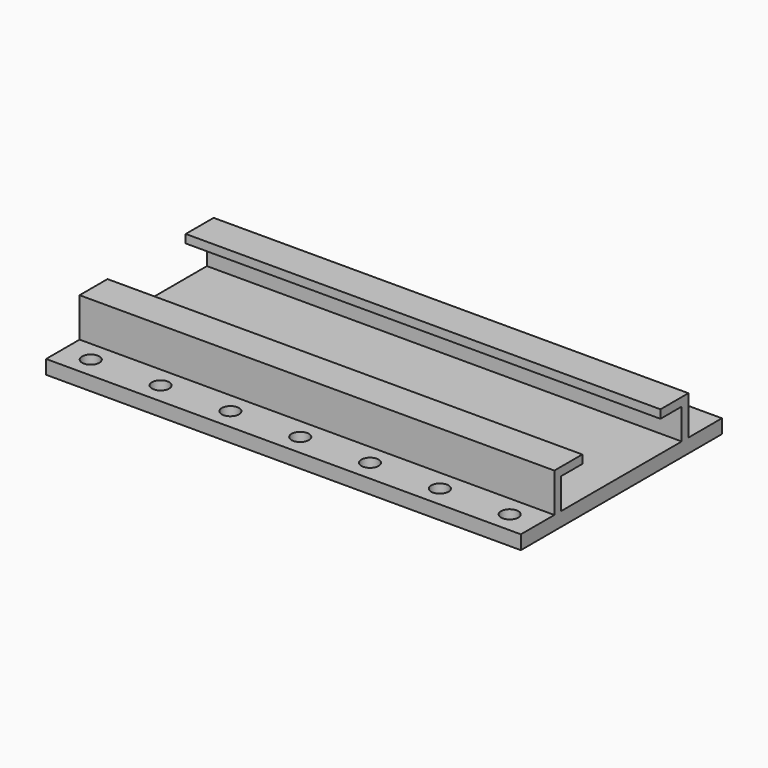
from build123d import *

# Parameters (mm, degrees)
F0_W     = 3
F0_H     = 11
F1_DEPTH = 85
F2_R     = 3.1
F3_DEPTH = 6


with BuildPart() as f1:
    # F0 (on Right) → F1 (new body, symmetric)
    with BuildSketch(Plane.YZ):
        Polygon((-30, 2.5), (-45, 2.5), (-45, -2.5), (45, -2.5), (45, 2.5), (30, 2.5), (27, 2.5), (-27, 2.5), align=None)
        with Locations((-28.5, 8)):
            Rectangle(F0_W, F0_H)
        Polygon((-30, 16.5), (-30, 13.5), (-27, 13.5), (-17.5, 13.5), (-17.5, 16.5), align=None)
        with Locations((28.5, 8)):
            Rectangle(F0_W, F0_H)
        Polygon((17.5, 13.5), (27, 13.5), (30, 13.5), (30, 16.5), (17.5, 16.5), align=None)
    extrude(amount=F1_DEPTH, both=True)

    # F2 (on face) → F3 (cut)
    with BuildSketch(Plane(origin=(0, 0, -2.5), x_dir=(1, 0, 0), z_dir=(0, 0, -1))):
        with Locations((-75, 37.5)):
            Circle(F2_R)
        with Locations((-50, 37.5)):
            Circle(F2_R)
        with Locations((-25, 37.5)):
            Circle(F2_R)
        with Locations((0, 37.5)):
            Circle(F2_R)
        with Locations((25, 37.5)):
            Circle(F2_R)
        with Locations((75, 37.5)):
            Circle(F2_R)
        with Locations((50, 37.5)):
            Circle(F2_R)
        with Locations((50, -37.5)):
            Circle(F2_R)
        with Locations((75, -37.5)):
            Circle(F2_R)
        with Locations((25, -37.5)):
            Circle(F2_R)
        with Locations((0, -37.5)):
            Circle(F2_R)
        with Locations((-25, -37.5)):
            Circle(F2_R)
        with Locations((-50, -37.5)):
            Circle(F2_R)
        with Locations((-75, -37.5)):
            Circle(F2_R)
    extrude(amount=-F3_DEPTH, mode=Mode.SUBTRACT)


solid = f1.part
